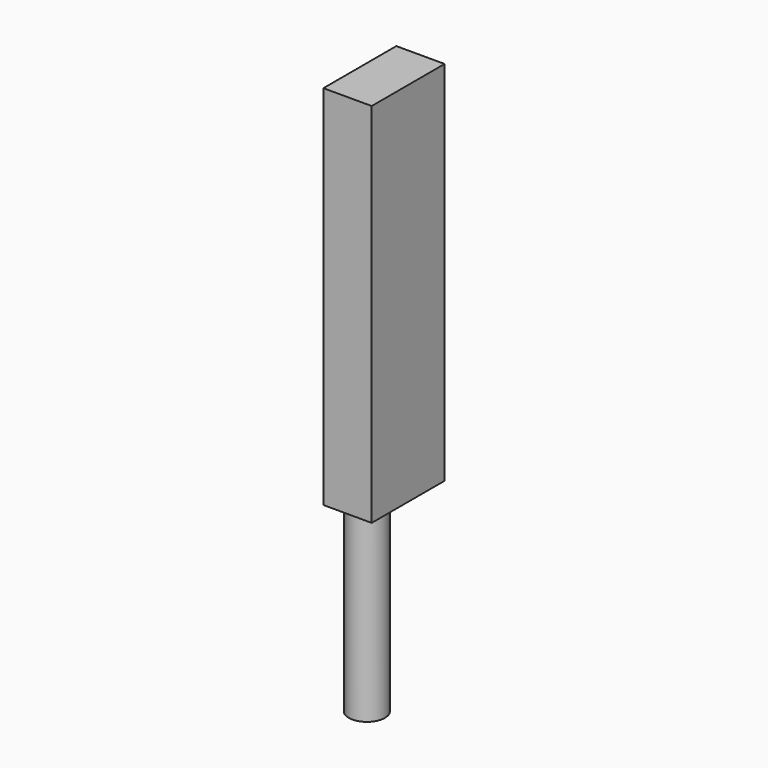
from build123d import *

# Parameters (mm, degrees)
F0_R     = 1.475
F1_DEPTH = 15
F2_W     = 3.95
F2_H     = 7.45
F2_R     = 1.475
F3_DEPTH = 30


with BuildPart() as f1:
    # F0 (on Top) → F1 (new body)
    with BuildSketch(Plane.XY):
        Circle(F0_R)
    extrude(amount=F1_DEPTH)

    # F2 (on face) → F3 (join)
    with BuildSketch(Plane.XY.offset(15)):
        with Locations((0, 1.75)):
            Rectangle(F2_W, F2_H)
        Circle(F2_R, mode=Mode.SUBTRACT)
        Circle(F2_R)
    extrude(amount=F3_DEPTH)


solid = f1.part
